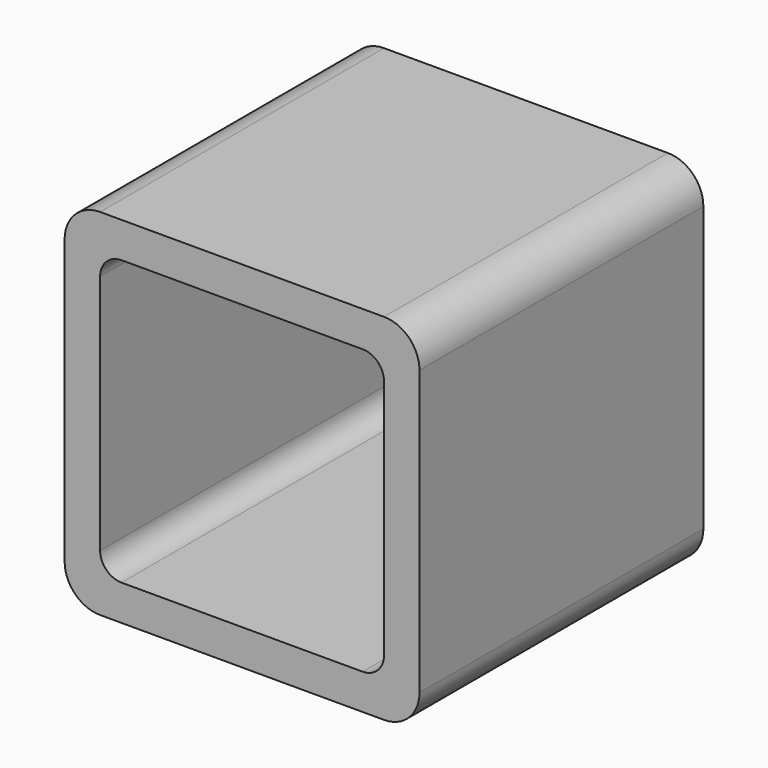
from build123d import *

# Parameters (mm, degrees)
F0_W     = 50
F0_H     = 50
F0_W_2   = 40
F0_H_2   = 40
F1_DEPTH = 50
F2_R     = 5
F3_R     = 3


with BuildPart() as f1:
    # F0 (on Front) → F1 (new body)
    with BuildSketch(Plane.XZ):
        Rectangle(F0_W, F0_H)
        Rectangle(F0_W_2, F0_H_2, mode=Mode.SUBTRACT)
    extrude(amount=F1_DEPTH)

    # F2
    f2_edges = [f1.edges().sort_by_distance(p)[0] for p in [
        (25, -25, 25),
        (-25, -25, 25),
        (25, -25, -25),
        (-25, -25, -25),
    ]]
    fillet(f2_edges, radius=F2_R)

    # F3
    f3_edges = [f1.edges().sort_by_distance(p)[0] for p in [
        (20, -25, 20),
        (-20, -25, 20),
        (-20, -25, -20),
        (20, -25, -20),
    ]]
    fillet(f3_edges, radius=F3_R)


solid = f1.part
